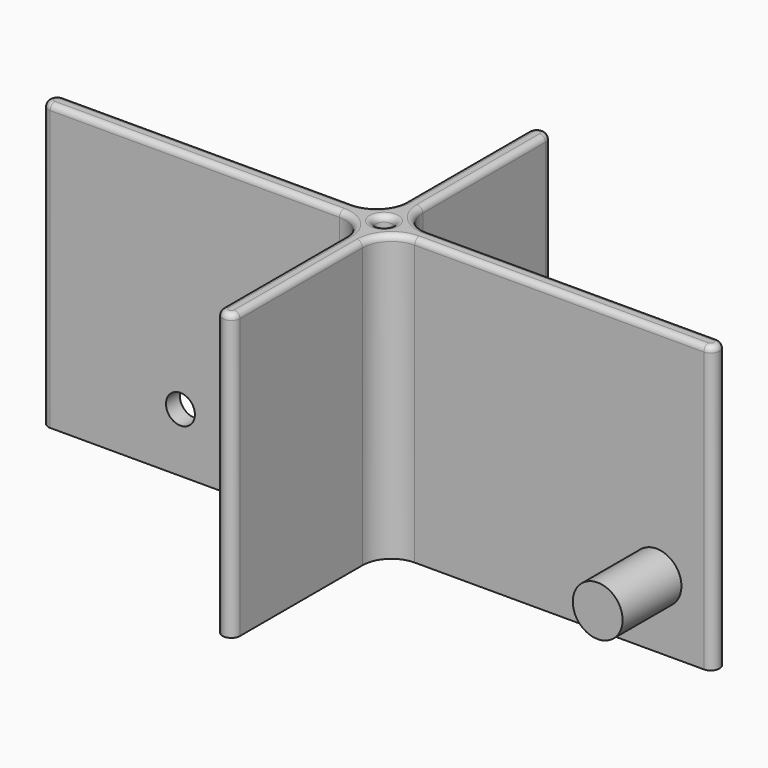
from build123d import *

# Parameters (mm, degrees)
F1_DEPTH = 49.3
F2_R     = 5
F4_D     = 3
F5_R     = 1
F6_R     = 4.3076910369
F7_DEPTH = 15.71207
F8_D     = 5


with BuildPart() as f1:
    # F0 (on Top) → F1 (new body)
    with BuildSketch(Plane.XY):
        with BuildLine():
            ThreePointArc((0, 1.5), (-1.5, 0), (0, -1.5))
            Line((0, -1.5), (55, -1.5))
            Line((55, -1.5), (55, -33))
            ThreePointArc((55, -33), (56.5, -34.5), (58, -33))
            Line((58, -33), (58, -1.5))
            Line((58, -1.5), (113, -1.5))
            ThreePointArc((113, -1.5), (114.5, 0), (113, 1.5))
            Line((113, 1.5), (58, 1.5))
            Line((58, 1.5), (58, 33))
            ThreePointArc((58, 33), (56.5, 34.5), (55, 33))
            Line((55, 33), (55, 1.5))
            Line((55, 1.5), (0, 1.5))
        make_face()
    extrude(amount=F1_DEPTH)

    # F2
    f2_edges = [f1.edges().sort_by_distance(p)[0] for p in [
        (58, -1.5, 24.65),
        (55, -1.5, 24.65),
        (55, 1.5, 24.65),
        (58, 1.5, 24.65),
    ]]
    fillet(f2_edges, radius=F2_R)

    # F4 (through all)
    with Locations(Plane.XY.offset(49.3)):
        with Locations((56.5, 0)):
            Hole(F4_D / 2)

    # F5
    f5_edges = [f1.edges().sort_by_distance(p)[0] for p in [
        (25, -1.5, 49.3),
        (53.535534, -2.964466, 49.3),
        (-1.5, 0, 49.3),
        (55, -19.75, 49.3),
        (25, 1.5, 49.3),
        (56.5, -34.5, 49.3),
        (53.535534, 2.964466, 49.3),
        (58, -19.75, 49.3),
        (55, 19.75, 49.3),
        (59.464466, -2.964466, 49.3),
        (56.5, 34.5, 49.3),
        (88, -1.5, 49.3),
        (58, 19.75, 49.3),
        (114.5, 0, 49.3),
        (59.464466, 2.964466, 49.3),
        (88, 1.5, 49.3),
        (55, 0, 49.3),
    ]]
    fillet(f5_edges, radius=F5_R)

    # F6 (on face) → F7 (join)
    with BuildSketch(Plane(origin=(0, 1.5, 0), x_dir=(-1, 0, 0), z_dir=(0, 1, 0))):
        with Locations((-104.8107147217, 11.4163886756)):
            Circle(F6_R)
    extrude(amount=-F7_DEPTH)

    # F8 (through all)
    with Locations(Plane.XZ.offset(1.5)):
        with Locations((22.5091800094, 10.1744234562)):
            Hole(F8_D / 2)


solid = f1.part
